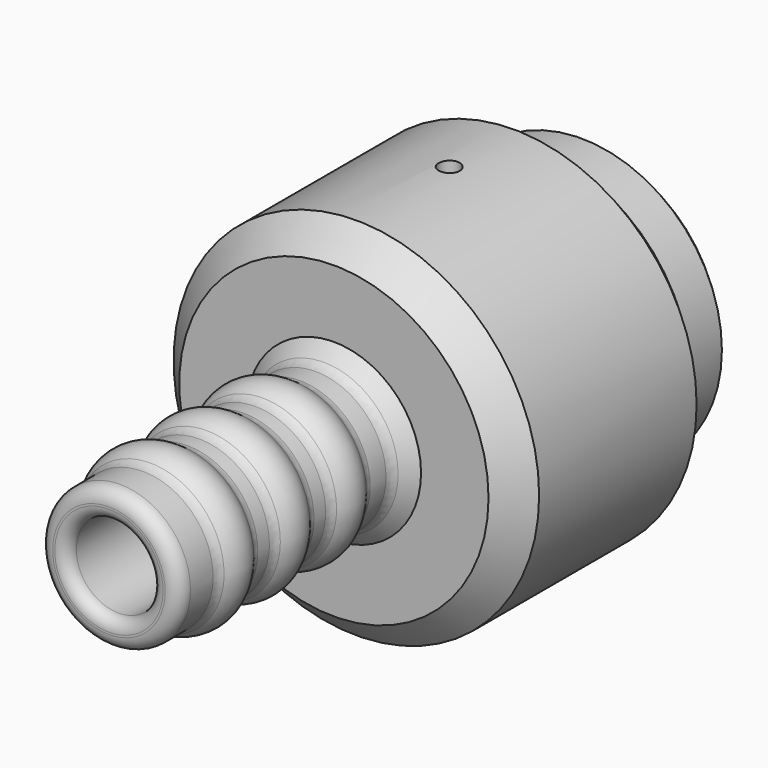
from build123d import *

# Parameters (mm, degrees)
CHAMFER011_SIZE         = 1.2
CHAMFER012_SIZE         = 1
CHAMFER013_SIZE         = 2
SKETCH132_R             = 0.75
POCKET045_DEPTH         = 3
POLARPATTERN009_COUNT   = 2
POLARPATTERN009_ANGLE   = 180
LINEARPATTERN003_COUNT  = 3
LINEARPATTERN003_PITCH  = 5
FILLET055_R             = 1
FILLET056_R             = 0.85
BODY056_PLACEMENT_ANGLE = 180


with BuildPart() as part:
    # Sketch131 → Revolution002 (revolve)
    with BuildSketch(Plane.XY):
        with BuildLine():
            Line((5, 0), (10, 0))
            Line((10, 0), (10, 5))
            Line((13, 5), (10, 5))
            Line((13, 5), (13, 23))
            Line((13, 23), (5, 23))
            Line((5, 43), (5, 23))
            Line((3, 43), (5, 43))
            Line((3, 43), (3, 19))
            ThreePointArc((3, 19), (3.082242, 16.780147), (3.328517, 14.572465))
            Line((3.328517, 14.572465), (4.671483, 5.572465))
            ThreePointArc((5, 1.144929), (4.917758, 3.364782), (4.671483, 5.572465))
            Line((5, 1.144929), (5, 0))
        make_face()
    revolve(axis=Axis((0, 0, 0), (0, 1, 0)))

    # Chamfer011
    chamfer011_edges = [part.edges().sort_by_distance(p)[0] for p in [
        (-5, 23, 0),
    ]]
    chamfer(chamfer011_edges, length=CHAMFER011_SIZE)

    # Chamfer012
    chamfer012_edges = [part.edges().sort_by_distance(p)[0] for p in [
        (-10, 0, 0),
    ]]
    chamfer(chamfer012_edges, length=CHAMFER012_SIZE)

    # Chamfer013
    chamfer013_edges = [part.edges().sort_by_distance(p)[0] for p in [
        (-13, 5, 0),
        (-13, 23, 0),
        (13, 14, 0),
    ]]
    chamfer(chamfer013_edges, length=CHAMFER013_SIZE)

    # Sketch132 (on DatumPlane) → Pocket045 (cut)
    with BuildSketch(Plane.XY.offset(14)):
        with Locations((0, 12.75)):
            Circle(SKETCH132_R)
    pocket045 = extrude(amount=-POCKET045_DEPTH, mode=Mode.SUBTRACT)

    # PolarPattern009: Pocket045 ×2 about axis
    polarpattern009_axis = Axis((0, 0, 0), (0, 1, 0))
    for i in range(1, POLARPATTERN009_COUNT):
        add(pocket045.rotate(polarpattern009_axis, i * POLARPATTERN009_ANGLE / (POLARPATTERN009_COUNT - 1)), mode=Mode.SUBTRACT)

    # Sketch133 → Revolution003 (revolve)
    with BuildSketch(Plane.XY):
        with BuildLine():
            ThreePointArc((4.75, 36.267949), (5.75, 38), (4.75, 39.732051))
            Line((4.75, 39.732051), (4.75, 36.267949))
        make_face()
    revolution003 = revolve(axis=Axis((0, 0, 0), (0, 1, 0)))

    # LinearPattern003: Revolution003 ×3
    with Locations(*[(0, -i * LINEARPATTERN003_PITCH, 0) for i in range(1, LINEARPATTERN003_COUNT)]):
        add(revolution003)

    # Fillet055
    fillet055_edges = [part.edges().sort_by_distance(p)[0] for p in [
        (-5, 43, 0),
        (5, 41.280625, 0),
        (-5, 39.561249, 0),
        (5, 35.5, 0),
        (-5, 34.561249, 0),
        (-5, 36.438751, 0),
        (5, 30.5, 0),
        (-5, 29.561249, 0),
        (-5, 31.438751, 0),
        (-5, 26.438751, 0),
        (5, 25.319375, 0),
        (-5, 24.2, 0),
    ]]
    fillet(fillet055_edges, radius=FILLET055_R)

    # Fillet056
    fillet056_edges = [part.edges().sort_by_distance(p)[0] for p in [
        (-3, 43, 0),
    ]]
    fillet(fillet056_edges, radius=FILLET056_R)


with BuildPart() as part_1:
    # Body056 placement: moved
    add(part.part.moved(Location((0, -49.75, 0))).rotate(Axis((0, -49.75, 0), (1, 0, 0)), BODY056_PLACEMENT_ANGLE))


solid = part_1.part
